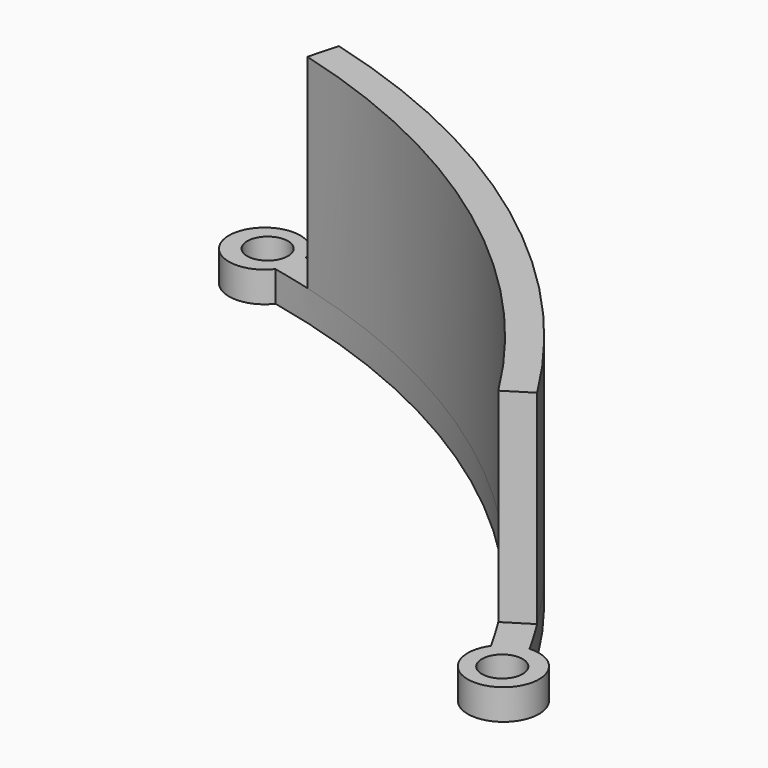
from build123d import *

# Parameters (mm, degrees)
PAD113_DEPTH    = 3
PAD114_DEPTH    = 20
SKETCH279_R     = 2
POCKET134_DEPTH = 3.001


with BuildPart() as part:
    # Sketch277 → Pad113 (new body)
    with BuildSketch(Plane.XY):
        with BuildLine():
            ThreePointArc((71.205245, 39.64925), (48.53257, 65.473961), (17.230996, 79.65766))
            ThreePointArc((17.230996, 79.65766), (10.402187, 79.600128), (16.596726, 76.725476))
            ThreePointArc((68.584193, 38.189769), (46.746095, 63.063877), (16.596726, 76.725476))
            ThreePointArc((68.584193, 38.189769), (73.135876, 33.098784), (71.205245, 39.64925))
        make_face()
    extrude(amount=PAD113_DEPTH)

    # Sketch278 (on Face6 of Pad113) → Pad114 (join)
    with BuildSketch(Plane.XY.offset(3)):
        with BuildLine():
            ThreePointArc((66.549812, 41.633791), (46.746095, 63.063877), (20.483489, 75.78045))
            Line((20.483489, 75.78045), (21.266298, 78.676519))
            ThreePointArc((69.093116, 43.224892), (48.53257, 65.473961), (21.266298, 78.676519))
            Line((66.549812, 41.633791), (69.093116, 43.224892))
        make_face()
    extrude(amount=PAD114_DEPTH)

    # Sketch279 (on Face5 of Pad114) → Pocket134 (cut, through all)
    with BuildSketch(Plane.XY.offset(3)):
        with Locations((71.402069, 36.060539)):
            Circle(SKETCH279_R)
        with Locations((14.00263, 79.004593)):
            Circle(SKETCH279_R)
    extrude(amount=-POCKET134_DEPTH, mode=Mode.SUBTRACT)


with BuildPart() as part_1:
    # Body099 placement: moved
    add(part.part.moved(Location((0, 0, 10))))


solid = part_1.part
